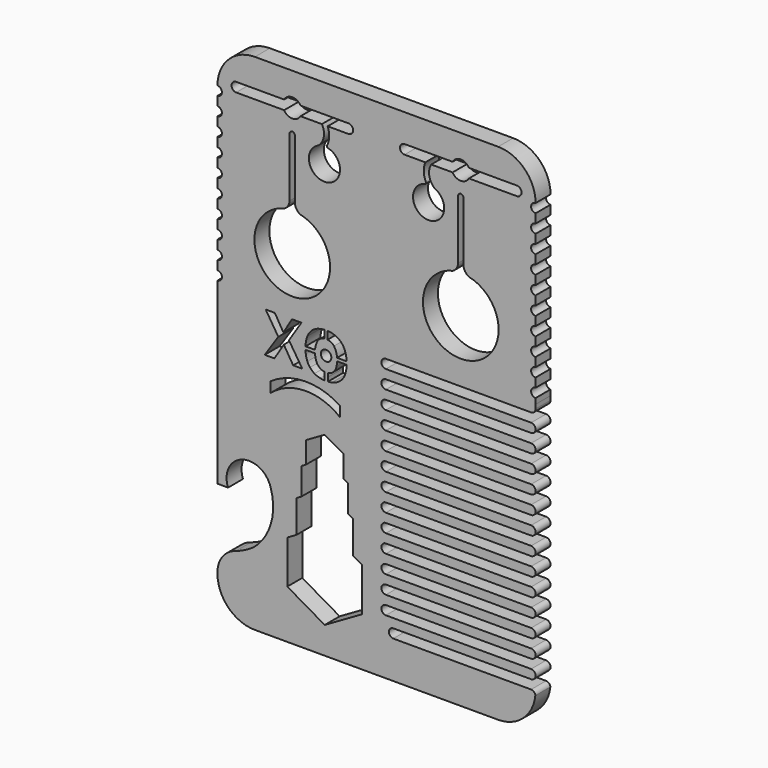
from build123d import *

# Parameters (mm, degrees)
F0_R     = 0.889
F1_DEPTH = 3.175


with BuildPart() as f1:
    # F0 (on Front) → F1 (new body)
    with BuildSketch(Plane.XZ):
        with BuildLine():
            Line((23.4080069008, 77.7951713929), (-17.8669930992, 77.7951713929))
            ThreePointArc((-17.8669930992, 77.7951713929), (-22.3571211598, 75.9352994534), (-24.2169930992, 71.4451713929))
            ThreePointArc((-24.2169930992, 71.4451713929), (-23.4601609357, 70.678745068), (-24.2169930992, 69.9123187432))
            Line((-24.2169930992, 69.9123187432), (-24.2169930992, 68.3794660935))
            ThreePointArc((-24.2169930992, 68.3794660935), (-23.4601609357, 67.6130397686), (-24.2169930992, 66.8466134438))
            Line((-24.2169930992, 66.8466134438), (-24.2169930992, 65.3137607941))
            ThreePointArc((-24.2169930992, 65.3137607941), (-23.4601609357, 64.5473344693), (-24.2169930992, 63.7809081444))
            Line((-24.2169930992, 63.7809081444), (-24.2169930992, 62.2480554947))
            ThreePointArc((-24.2169930992, 62.2480554947), (-23.4601609357, 61.4816291699), (-24.2169930992, 60.715202845))
            Line((-24.2169930992, 60.715202845), (-24.2169930992, 59.1823501954))
            ThreePointArc((-24.2169930992, 59.1823501954), (-23.4601609357, 58.4159238705), (-24.2169930992, 57.6494975457))
            Line((-24.2169930992, 57.6494975457), (-24.2169930992, 56.116644896))
            ThreePointArc((-24.2169930992, 56.116644896), (-23.4601609357, 55.3502185711), (-24.2169930992, 54.5837922463))
            Line((-24.2169930992, 54.5837922463), (-24.2169930992, 53.0509395966))
            ThreePointArc((-24.2169930992, 53.0509395966), (-23.4601609357, 52.2845132718), (-24.2169930992, 51.5180869469))
            Line((-24.2169930992, 51.5180869469), (-24.2169930992, 49.9852342972))
            ThreePointArc((-24.2169930992, 49.9852342972), (-23.4601609357, 49.2188079724), (-24.2169930992, 48.4523816475))
            Line((-24.2169930992, 48.4523816475), (-24.2169930992, 46.9195289978))
            ThreePointArc((-24.2169930992, 46.9195289978), (-23.4601609357, 46.153102673), (-24.2169930992, 45.3866763482))
            Line((-24.2169930992, 45.3866763482), (-24.2169930992, 43.8538236985))
            ThreePointArc((-24.2169930992, 43.8538236985), (-23.4601609357, 43.0873973736), (-24.2169930992, 42.3209710488))
            Line((-24.2169930992, 42.3209710488), (-24.2169930992, 11.9718195391))
            Line((-24.2169930992, 11.9718195391), (-22.4200252314, 11.9718195391))
            ThreePointArc((-22.4200252314, 11.9718195391), (-19.9887595974, 16.9646805752), (-15.1569525725, 14.2272813017))
            ThreePointArc((-15.1569525725, 14.2272813017), (-15.1772787238, 8.8494062865), (-18.1783556517, 4.3867288272))
            ThreePointArc((-18.1783556517, 4.3867288272), (-19.5831863948, 3.5593649559), (-21.0889047961, 2.9341510017))
            ThreePointArc((-21.0889047961, 2.9341510017), (-23.3477779157, 1.3755268808), (-24.2169930992, -1.2276023679))
            Line((-24.2169930992, -1.2276023679), (-24.2169930992, -1.4528286071))
            ThreePointArc((-24.2169930992, -1.4528286071), (-22.3571211598, -5.9429566677), (-17.8669930992, -7.8028286071))
            Line((-17.8669930992, -7.8028286071), (-4.4423449531, -7.8028286071))
            Line((-4.4423449531, -7.8028286071), (23.4080069008, -7.8028286071))
            ThreePointArc((23.4080069008, -7.8028286071), (27.6545816063, -6.173962292), (29.7225413535, -2.1230186135))
            ThreePointArc((29.7225413535, -2.1230186135), (29.486192809, -1.6492488659), (28.9924470827, -1.4581113082))
            Line((28.9924470827, -1.4581113082), (5.6146354256, -1.4581113082))
            ThreePointArc((5.6146354256, -1.4581113082), (4.8578032621, -0.6916849833), (5.6146354256, 0.0747413415))
            Line((5.6146354256, 0.0747413415), (29.0010451647, 0.0747413415))
            ThreePointArc((29.0010451647, 0.0747413415), (29.7578773282, 0.8411676664), (29.0010451647, 1.6075939912))
            Line((29.0010451647, 1.6075939912), (4.3588185292, 1.6075939912))
            ThreePointArc((4.3588185292, 1.6075939912), (3.6019863656, 2.3740203161), (4.3588185292, 3.1404466409))
            Line((4.3588185292, 3.1404466409), (29.0010451647, 3.1404466409))
            ThreePointArc((29.0010451647, 3.1404466409), (29.7578773282, 3.9068729658), (29.0010451647, 4.6732992906))
            Line((29.0010451647, 4.6732992906), (4.3588185292, 4.6732992906))
            ThreePointArc((4.3588185292, 4.6732992906), (3.6019863656, 5.4397256154), (4.3588185292, 6.2061519403))
            Line((4.3588185292, 6.2061519403), (29.0010451647, 6.2061519403))
            ThreePointArc((29.0010451647, 6.2061519403), (29.7578773282, 6.9725782651), (29.0010451647, 7.73900459))
            Line((29.0010451647, 7.73900459), (4.3588185292, 7.73900459))
            ThreePointArc((4.3588185292, 7.73900459), (3.6019863656, 8.5054309148), (4.3588185292, 9.2718572397))
            Line((4.3588185292, 9.2718572397), (29.0010451647, 9.2718572397))
            ThreePointArc((29.0010451647, 9.2718572397), (29.7578773282, 10.0382835645), (29.0010451647, 10.8047098894))
            Line((29.0010451647, 10.8047098894), (4.3588185292, 10.8047098894))
            ThreePointArc((4.3588185292, 10.8047098894), (3.6019863656, 11.5711362142), (4.3588185292, 12.337562539))
            Line((4.3588185292, 12.337562539), (29.0010451647, 12.337562539))
            ThreePointArc((29.0010451647, 12.337562539), (29.7578773282, 13.1039888639), (29.0010451647, 13.8704151887))
            Line((29.0010451647, 13.8704151887), (4.3588185292, 13.8704151887))
            ThreePointArc((4.3588185292, 13.8704151887), (3.6019863656, 14.6368415136), (4.3588185292, 15.4032678384))
            Line((4.3588185292, 15.4032678384), (29.0010451647, 15.4032678384))
            ThreePointArc((29.0010451647, 15.4032678384), (29.7578773282, 16.1696941633), (29.0010451647, 16.9361204881))
            Line((29.0010451647, 16.9361204881), (4.3588185292, 16.9361204881))
            ThreePointArc((4.3588185292, 16.9361204881), (3.6019863656, 17.702546813), (4.3588185292, 18.4689731378))
            Line((4.3588185292, 18.4689731378), (29.0010451647, 18.4689731378))
            ThreePointArc((29.0010451647, 18.4689731378), (29.7578773282, 19.2353994626), (29.0010451647, 20.0018257875))
            Line((29.0010451647, 20.0018257875), (4.3588185292, 20.0018257875))
            ThreePointArc((4.3588185292, 20.0018257875), (3.6019863656, 20.7682521123), (4.3588185292, 21.5346784372))
            Line((4.3588185292, 21.5346784372), (29.0010451647, 21.5346784372))
            ThreePointArc((29.0010451647, 21.5346784372), (29.7578773282, 22.301104762), (29.0010451647, 23.0675310869))
            Line((29.0010451647, 23.0675310869), (4.3588185292, 23.0675310869))
            ThreePointArc((4.3588185292, 23.0675310869), (3.6019863656, 23.8339574117), (4.3588185292, 24.6003837366))
            Line((4.3588185292, 24.6003837366), (29.0010451647, 24.6003837366))
            ThreePointArc((29.0010451647, 24.6003837366), (29.7578773282, 25.3668100614), (29.0010451647, 26.1332363862))
            Line((29.0010451647, 26.1332363862), (4.3588185292, 26.1332363862))
            ThreePointArc((4.3588185292, 26.1332363862), (3.6019863656, 26.8996627111), (4.3588185292, 27.6660890359))
            Line((4.3588185292, 27.6660890359), (29.0010451647, 27.6660890359))
            ThreePointArc((29.0010451647, 27.6660890359), (29.7578773282, 28.4325153608), (29.0010451647, 29.1989416856))
            Line((29.0010451647, 29.1989416856), (4.3588185292, 29.1989416856))
            ThreePointArc((4.3588185292, 29.1989416856), (3.6019863656, 29.9653680105), (4.3588185292, 30.7317943353))
            Line((4.3588185292, 30.7317943353), (29.0010451647, 30.7317943353))
            ThreePointArc((29.0010451647, 30.7317943353), (29.7578773282, 31.4982206602), (29.0010451647, 32.264646985))
            Line((29.0010451647, 32.264646985), (4.3588185292, 32.264646985))
            ThreePointArc((4.3588185292, 32.264646985), (3.6019863656, 33.0310733098), (4.3588185292, 33.7974996347))
            Line((4.3588185292, 33.7974996347), (29.0010451647, 33.7974996347))
            ThreePointArc((29.0010451647, 33.7974996347), (29.7578773282, 34.5639259595), (29.0010451647, 35.3303522844))
            Line((29.0010451647, 35.3303522844), (4.3588185292, 35.3303522844))
            ThreePointArc((4.3588185292, 35.3303522844), (3.6019863656, 36.0967786092), (4.3588185292, 36.8632049341))
            Line((4.3588185292, 36.8632049341), (29.0010451647, 36.8632049341))
            ThreePointArc((29.0010451647, 36.8632049341), (29.7578773282, 37.6296312589), (29.0010451647, 38.3960575838))
            Line((29.0010451647, 38.3960575838), (4.3588185292, 38.3960575838))
            ThreePointArc((4.3588185292, 38.3960575838), (3.6019863656, 39.1624839086), (4.3588185292, 39.9289102334))
            Line((4.3588185292, 39.9289102334), (29.0010451647, 39.9289102334))
            ThreePointArc((29.0010451647, 39.9289102334), (29.5367813096, 40.1567726727), (29.7578773282, 40.6953365583))
            Line((29.7578773282, 40.6953365583), (29.7580069008, 41.3861129474))
            Line((29.7580069008, 41.3861129474), (29.7580069008, 42.3209710488))
            ThreePointArc((29.7580069008, 42.3209710488), (29.0011747372, 43.0873973736), (29.7580069008, 43.8538236985))
            Line((29.7580069008, 43.8538236985), (29.7580069008, 45.3866763482))
            ThreePointArc((29.7580069008, 45.3866763482), (29.0011747372, 46.153102673), (29.7580069008, 46.9195289978))
            Line((29.7580069008, 46.9195289978), (29.7580069008, 48.4523816475))
            ThreePointArc((29.7580069008, 48.4523816475), (29.0011747372, 49.2188079724), (29.7580069008, 49.9852342972))
            Line((29.7580069008, 49.9852342972), (29.7580069008, 51.5180869469))
            ThreePointArc((29.7580069008, 51.5180869469), (29.0011747372, 52.2845132718), (29.7580069008, 53.0509395966))
            Line((29.7580069008, 53.0509395966), (29.7580069008, 54.5837922463))
            ThreePointArc((29.7580069008, 54.5837922463), (29.0011747372, 55.3502185711), (29.7580069008, 56.116644896))
            Line((29.7580069008, 56.116644896), (29.7580069008, 57.6494975457))
            ThreePointArc((29.7580069008, 57.6494975457), (29.0011747372, 58.4159238705), (29.7580069008, 59.1823501954))
            Line((29.7580069008, 59.1823501954), (29.7580069008, 60.715202845))
            ThreePointArc((29.7580069008, 60.715202845), (29.0011747372, 61.4816291699), (29.7580069008, 62.2480554947))
            Line((29.7580069008, 62.2480554947), (29.7580069008, 63.7809081444))
            ThreePointArc((29.7580069008, 63.7809081444), (29.0011747372, 64.5473344693), (29.7580069008, 65.3137607941))
            Line((29.7580069008, 65.3137607941), (29.7580069008, 66.8466134438))
            ThreePointArc((29.7580069008, 66.8466134438), (29.0011747372, 67.6130397686), (29.7580069008, 68.3794660935))
            Line((29.7580069008, 68.3794660935), (29.7580069008, 69.9123187432))
            ThreePointArc((29.7580069008, 69.9123187432), (29.0011747372, 70.678745068), (29.7580069008, 71.4451713929))
            ThreePointArc((29.7580069008, 71.4451713929), (27.8981349613, 75.9352994534), (23.4080069008, 77.7951713929))
        make_face()
        Polygon((0.3304048825, 7.7939414397), (0.3304048825, 0.461593021), (-6.0195951175, -3.2045811883), (-12.3695951175, 0.461593021), (-12.3695951175, 7.7939414397), (-10.7820951175, 8.7104849921), (-10.7820951175, 14.2097463061), (-9.9883451175, 14.6680180823), (-9.9883451175, 19.250735844), (-9.1945951175, 19.7090076201), (-9.1945951175, 23.3751818295), (-6.0195951175, 25.2082689342), (-2.8445951175, 23.3751818295), (-2.8445951175, 19.7090076201), (-2.0508451175, 19.250735844), (-2.0508451175, 14.6680180823), (-1.2570951175, 14.2097463061), (-1.2570951175, 8.7104849921), align=None, mode=Mode.SUBTRACT)
        with BuildLine():
            ThreePointArc((-15.225028936, 30.2042430998), (-9.3459479513, 32.0991633673), (-3.4149569503, 30.3735730944))
            Line((-3.4149569503, 30.3735730944), (-3.4149569503, 28.6465371296))
            ThreePointArc((-3.4149569503, 28.6465371296), (-9.3586650401, 30.6990811443), (-15.225028936, 28.4349306569))
            Line((-15.225028936, 28.4349306569), (-15.225028936, 30.2042430998))
        make_face(mode=Mode.SUBTRACT)
        Polygon((-13.8946831678, 37.2720346103), (-16.0377220726, 40.6584545254), (-14.4790124647, 40.6584545254), (-13.0353753782, 38.2015814714), (-11.5648382218, 40.6584545254), (-9.9672729574, 40.6584545254), (-12.0878951372, 37.3512403718), (-9.8223114694, 33.830320107), (-11.3735488356, 33.830320107), (-12.9606529617, 36.4127268207), (-14.5492515362, 33.830320107), (-16.2021113888, 33.830320107), align=None, mode=Mode.SUBTRACT)
        with BuildLine():
            ThreePointArc((-7.6726638002, 36.8369610256), (-7.6264819496, 36.420014223), (-7.5347456416, 36.0106710303))
            ThreePointArc((-7.5347456416, 36.0106710303), (-7.0301387172, 35.0660942703), (-6.0613566891, 34.609679124))
            Line((-6.0613566891, 34.609679124), (-6.0613566891, 33.9627963326))
            Line((-6.0613566891, 33.9627963326), (-6.0613566891, 33.3102494556))
            ThreePointArc((-6.0613566891, 33.3102494556), (-6.0896693898, 33.3121580697), (-6.1179693181, 33.3142475396))
            ThreePointArc((-6.1179693181, 33.3142475396), (-6.4457522766, 33.3439555603), (-6.7692900902, 33.4043502416))
            ThreePointArc((-6.7692900902, 33.4043502416), (-7.2759164582, 33.5456900717), (-7.7509351828, 33.771531688))
            ThreePointArc((-7.7509351828, 33.771531688), (-8.1633705621, 34.0700216763), (-8.5167966793, 34.436476578))
            ThreePointArc((-8.5167966793, 34.436476578), (-8.7677089926, 34.8024631035), (-8.960247059, 35.202253322))
            ThreePointArc((-8.960247059, 35.202253322), (-9.1284032528, 35.7113223393), (-9.22604353, 36.2384790012))
            ThreePointArc((-9.22604353, 36.2384790012), (-9.2603121688, 36.5332087368), (-9.2792128573, 36.8293214192))
            Line((-9.2792128573, 36.8293214192), (-7.6726638002, 36.8369610256))
        make_face(mode=Mode.SUBTRACT)
        with Locations((-5.7882720985, 37.0899967857)):
            Circle(F0_R, mode=Mode.SUBTRACT)
        with BuildLine():
            ThreePointArc((-6.0613566891, 39.5489662494), (-6.6608283976, 39.3488743922), (-7.1616506652, 38.9634134513))
            ThreePointArc((-7.1616506652, 38.9634134513), (-7.5033926127, 38.1890667228), (-7.6657570571, 37.358381342))
            Line((-7.6657570571, 37.358381342), (-9.2750570269, 37.3507286541))
            ThreePointArc((-9.2750570269, 37.3507286541), (-9.2749080405, 37.353489011), (-9.2747577168, 37.3562492953))
            ThreePointArc((-9.2747577168, 37.3562492953), (-9.1926891253, 38.1602253928), (-8.9697444329, 38.9370191126))
            ThreePointArc((-8.9697444329, 38.9370191126), (-8.627714232, 39.5825139813), (-8.1366111462, 40.1233152784))
            ThreePointArc((-8.1366111462, 40.1233152784), (-7.6112306963, 40.4811369102), (-7.0208468728, 40.7167380102))
            ThreePointArc((-7.0208468728, 40.7167380102), (-6.5481821578, 40.8209431329), (-6.0669567898, 40.872835189))
            Line((-6.0669567898, 40.872835189), (-6.0613566891, 39.5489662494))
        make_face(mode=Mode.SUBTRACT)
        with BuildLine():
            ThreePointArc((-5.4916111325, 34.6123884293), (-4.5272135916, 35.0779964048), (-4.0316127573, 36.0273294427))
            ThreePointArc((-4.0316127573, 36.0273294427), (-3.943773601, 36.4375265687), (-3.9015591551, 36.8548937214))
            Line((-3.9015591551, 36.8548937214), (-2.2950100981, 36.8625333278))
            ThreePointArc((-2.2950100981, 36.8625333278), (-2.3110937922, 36.5662542846), (-2.3425578939, 36.2712119708))
            ThreePointArc((-2.3425578939, 36.2712119708), (-2.4351803033, 35.7431505546), (-2.5984874603, 35.232505333))
            ThreePointArc((-2.5984874603, 35.232505333), (-2.7872146685, 34.8309020876), (-3.034634969, 34.462545846))
            ThreePointArc((-3.034634969, 34.462545846), (-3.3845599829, 34.0927463059), (-3.7941379614, 33.7903474058))
            ThreePointArc((-3.7941379614, 33.7903474058), (-4.2669873673, 33.5599984017), (-4.7722466301, 33.4138467621))
            ThreePointArc((-4.7722466301, 33.4138467621), (-5.0951954364, 33.3503778495), (-5.4226810369, 33.3175538369))
            ThreePointArc((-5.4226810369, 33.3175538369), (-5.4509598138, 33.3151953189), (-5.4792530824, 33.313017527))
            Line((-5.4792530824, 33.313017527), (-5.4854590412, 33.9655348929))
            Line((-5.4854590412, 33.9655348929), (-5.4916111325, 34.6123884293))
        make_face(mode=Mode.SUBTRACT)
        with BuildLine():
            ThreePointArc((-4.4327725178, 38.9763900579), (-4.9372380101, 39.3570705641), (-5.5385855543, 39.5514521777))
            Line((-5.5385855543, 39.5514521777), (-5.5455761834, 40.875314505))
            ThreePointArc((-5.5455761834, 40.875314505), (-5.0638790661, 40.8280014243), (-4.5902446984, 40.7282962282))
            ThreePointArc((-4.5902446984, 40.7282962282), (-3.9976469224, 40.4983205485), (-3.4688872184, 40.1455116587))
            ThreePointArc((-3.4688872184, 40.1455116587), (-2.9726631249, 39.6094053886), (-2.6245095006, 38.967192544))
            ThreePointArc((-2.6245095006, 38.967192544), (-2.3941872992, 38.1925542397), (-2.3044763133, 37.3893950039))
            ThreePointArc((-2.3044763133, 37.3893950039), (-2.3042997451, 37.386636274), (-2.3041245135, 37.3838774589))
            Line((-2.3041245135, 37.3838774589), (-3.9134244833, 37.3762247711))
            ThreePointArc((-3.9134244833, 37.3762247711), (-4.0836817057, 38.2053284394), (-4.4327725178, 38.9763900579))
        make_face(mode=Mode.SUBTRACT)
        with BuildLine():
            Line((-11.9759133767, 58.2091994584), (-11.9759133767, 68.2653721396))
            ThreePointArc((-11.9759133767, 68.2653721396), (-11.5313982031, 68.7098873131), (-11.0868830296, 68.2653721396))
            Line((-11.0868830296, 68.2653721396), (-11.0868830296, 58.2091994584))
            ThreePointArc((-11.0868830296, 58.2091994584), (-10.8173274225, 57.3588853553), (-10.1647945515, 56.7506952933))
            ThreePointArc((-10.1647945515, 56.7506952933), (-11.5227525755, 44.0612320388), (-12.9023586609, 56.7483599538))
            ThreePointArc((-12.9023586609, 56.7483599538), (-12.2467912303, 57.35679716), (-11.9759133767, 58.2091994584))
        make_face(mode=Mode.SUBTRACT)
        with BuildLine():
            Line((16.6278968311, 58.2091994584), (16.6278968311, 68.2653721396))
            ThreePointArc((16.6278968311, 68.2653721396), (17.0724120047, 68.7098873131), (17.5169271782, 68.2653721396))
            Line((17.5169271782, 68.2653721396), (17.5169271782, 58.2091994584))
            ThreePointArc((17.5169271782, 58.2091994584), (17.7878050318, 57.35679716), (18.4433724624, 56.7483599538))
            ThreePointArc((18.4433724624, 56.7483599538), (17.063766377, 44.0612320388), (15.705808353, 56.7506952933))
            ThreePointArc((15.705808353, 56.7506952933), (16.358341224, 57.3588853553), (16.6278968311, 58.2091994584))
        make_face(mode=Mode.SUBTRACT)
        with BuildLine():
            ThreePointArc((-21.0419930992, 71.4451713929), (-21.8357430992, 72.2389213929), (-21.0419930992, 73.0326713929))
            Line((-21.0419930992, 73.0326713929), (-13.118916629, 73.0326713929))
            Line((-13.118916629, 73.0326713929), (-12.9088619799, 73.0326713929))
            ThreePointArc((-12.9088619799, 73.0326713929), (-11.5194013013, 73.8391213929), (-10.1299406226, 73.0326713929))
            Line((-10.1299406226, 73.0326713929), (-9.943916629, 73.0326713929))
            Line((-9.943916629, 73.0326713929), (-1.9919930992, 73.0326713929))
            ThreePointArc((-1.9919930992, 73.0326713929), (-1.1982430992, 72.2389213929), (-1.9919930992, 71.4451713929))
            Line((-1.9919930992, 71.4451713929), (-5.5154230218, 71.4451713929))
            ThreePointArc((-5.5154230218, 71.4451713929), (-5.2535694047, 69.9692560016), (-5.6276542042, 68.5177209102))
            ThreePointArc((-5.6276542042, 68.5177209102), (-5.6247298976, 68.3243524961), (-5.4778390775, 68.1985630605))
            ThreePointArc((-5.4778390775, 68.1985630605), (-5.8095134143, 62.9938170864), (-7.136892432, 68.0373727235))
            ThreePointArc((-7.136892432, 68.0373727235), (-6.1841879544, 69.6232448852), (-6.5054668609, 71.4451713929))
            Line((-6.5054668609, 71.4451713929), (-10.1299406226, 71.4451713929))
            ThreePointArc((-10.1299406226, 71.4451713929), (-11.5194013013, 70.6387213929), (-12.9088619799, 71.4451713929))
            Line((-12.9088619799, 71.4451713929), (-21.0419930992, 71.4451713929))
        make_face(mode=Mode.SUBTRACT)
        with BuildLine():
            Line((18.4498757815, 73.0326713929), (18.6599304305, 73.0326713929))
            Line((18.6599304305, 73.0326713929), (26.5830069008, 73.0326713929))
            ThreePointArc((26.5830069008, 73.0326713929), (27.3767569008, 72.2389213929), (26.5830069008, 71.4451713929))
            Line((26.5830069008, 71.4451713929), (18.4498757815, 71.4451713929))
            ThreePointArc((18.4498757815, 71.4451713929), (17.0604151028, 70.6387213929), (15.6709544242, 71.4451713929))
            Line((15.6709544242, 71.4451713929), (12.0464806625, 71.4451713929))
            ThreePointArc((12.0464806625, 71.4451713929), (11.7252017559, 69.6232448852), (12.6779062336, 68.0373727235))
            ThreePointArc((12.6779062336, 68.0373727235), (11.3505272159, 62.9938170864), (11.018852879, 68.1985630605))
            ThreePointArc((11.018852879, 68.1985630605), (11.1657436991, 68.3243524961), (11.1686680057, 68.5177209102))
            ThreePointArc((11.1686680057, 68.5177209102), (10.7945832062, 69.9692560016), (11.0564368233, 71.4451713929))
            Line((11.0564368233, 71.4451713929), (7.5330069008, 71.4451713929))
            ThreePointArc((7.5330069008, 71.4451713929), (6.7392569008, 72.2389213929), (7.5330069008, 73.0326713929))
            Line((7.5330069008, 73.0326713929), (15.4849304305, 73.0326713929))
            Line((15.4849304305, 73.0326713929), (15.6709544242, 73.0326713929))
            ThreePointArc((15.6709544242, 73.0326713929), (17.0604151028, 73.8391213929), (18.4498757815, 73.0326713929))
        make_face(mode=Mode.SUBTRACT)
    extrude(amount=F1_DEPTH)


solid = f1.part
